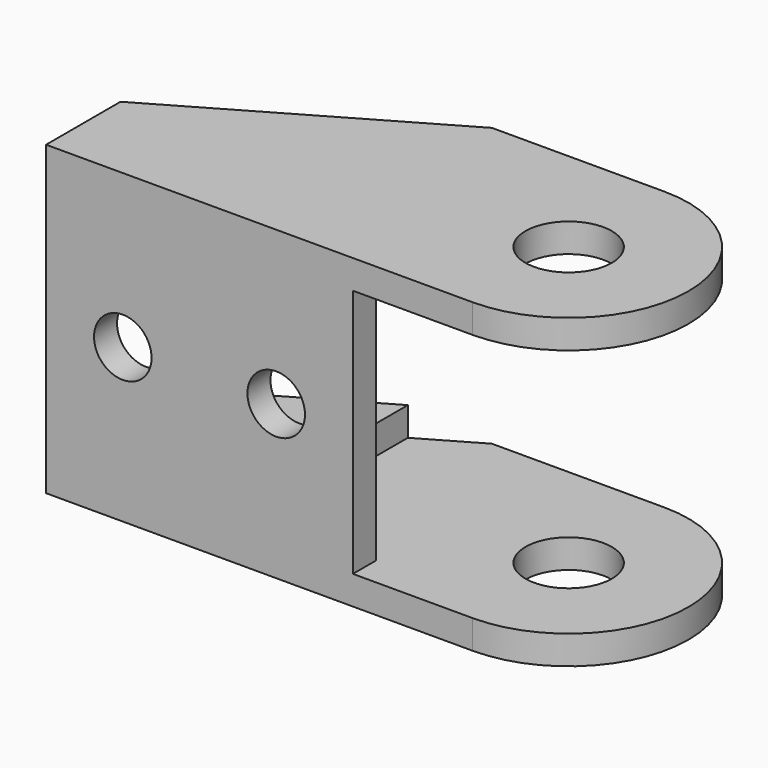
from build123d import *

# Parameters (mm, degrees)
SKETCH_R        = 2.25
PAD_DEPTH       = 16
SKETCH001_R     = 1.5
POCKET_DEPTH    = 12.501
POCKET001_DEPTH = 11
SKETCH003_W     = 16
SKETCH003_H     = 13
POCKET002_DEPTH = 5


with BuildPart() as part:
    # Sketch → Pad (new body)
    with BuildSketch(Plane.XY):
        with BuildLine():
            ThreePointArc((2.6e-05, -6.25), (6.25, 1.3e-05), (0, 6.25))
            Line((0, 6.25), (-8.999786, 6.25))
            Line((-22.249974, -1.4), (-8.999786, 6.25))
            Line((-22.249974, -6.25), (-22.249974, -1.4))
            Line((2.6e-05, -6.25), (-22.249974, -6.25))
        make_face()
        Circle(SKETCH_R, mode=Mode.SUBTRACT)
    extrude(amount=PAD_DEPTH)

    # Sketch001 → Pocket (cut, through all)
    with BuildSketch(Plane.XZ.offset(6.25)):
        with Locations((-18.249974, 8)):
            Circle(SKETCH001_R)
        with Locations((-10.249974, 8)):
            Circle(SKETCH001_R)
    extrude(amount=-POCKET_DEPTH, mode=Mode.SUBTRACT)

    # Sketch002 → Pocket001 (cut)
    with BuildSketch(Plane(origin=(0, 6.25, 0), x_dir=(-1, 0, 0), z_dir=(0, 1, 0))):
        Polygon((11.999974, 13), (22.249974, 13), (22.249974, 3), (11.999974, 3), (11.999974, 1.5), (-13.000026, 1.5), (-13.000026, 14.5), (11.999974, 14.5), align=None)
    extrude(amount=-POCKET001_DEPTH, mode=Mode.SUBTRACT)

    # Sketch003 → Pocket002 (cut)
    with BuildSketch(Plane(origin=(0, -4.75, 0), x_dir=(-1, 0, 0), z_dir=(0, 1, 0))):
        with Locations((-1.750026, 8)):
            Rectangle(SKETCH003_W, SKETCH003_H)
    extrude(amount=-POCKET002_DEPTH, mode=Mode.SUBTRACT)


solid = part.part
